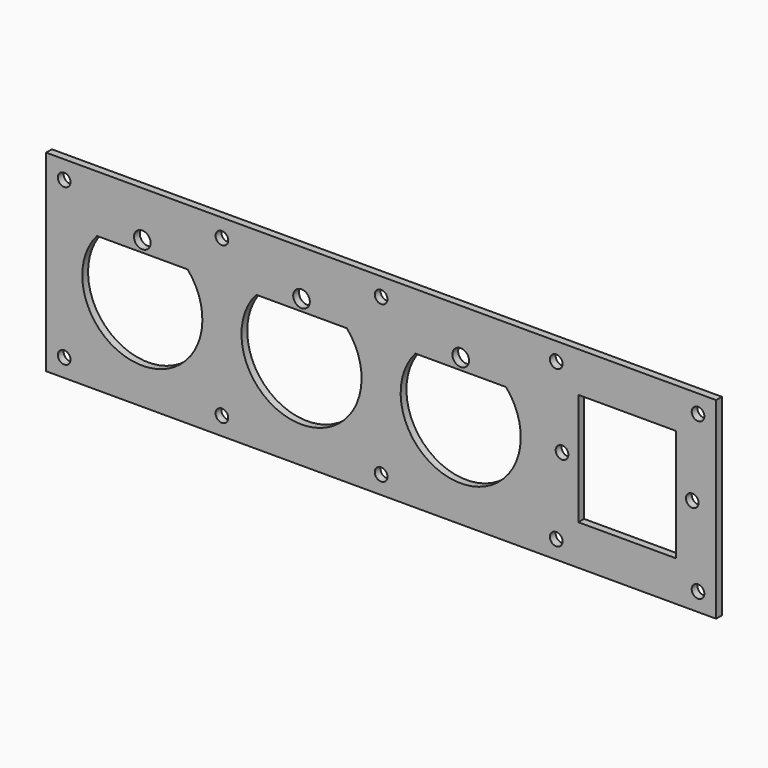
from build123d import *

# Parameters (mm, degrees)
F0_W     = 185.2
F0_H     = 53.2
F0_R     = 2.3
F0_W_2   = 27
F0_H_2   = 31
F1_DEPTH = 2
F2_D     = 3.5


with BuildPart() as f1:
    # F0 (on Front) → F1 (new body)
    with BuildSketch(Plane.XZ):
        with Locations((66, 0)):
            Rectangle(F0_W, F0_H)
        with BuildLine():
            ThreePointArc((12.519984, 10.9), (0, -16.6), (-12.519984, 10.9))
            Line((-12.519984, 10.9), (12.519984, 10.9))
        make_face(mode=Mode.SUBTRACT)
        with BuildLine():
            ThreePointArc((56.519984, 10.9), (44, -16.6), (31.480016, 10.9))
            Line((31.480016, 10.9), (56.519984, 10.9))
        make_face(mode=Mode.SUBTRACT)
        with BuildLine():
            ThreePointArc((100.519984, 10.9), (88, -16.6), (75.480016, 10.9))
            Line((75.480016, 10.9), (100.519984, 10.9))
        make_face(mode=Mode.SUBTRACT)
        with Locations((0, 14)):
            Circle(F0_R, mode=Mode.SUBTRACT)
        with Locations((44, 14)):
            Circle(F0_R, mode=Mode.SUBTRACT)
        with Locations((134, 0)):
            Rectangle(F0_W_2, F0_H_2, mode=Mode.SUBTRACT)
        with Locations((88, 14)):
            Circle(F0_R, mode=Mode.SUBTRACT)
    extrude(amount=F1_DEPTH)

    # F2 (through all)
    with Locations(Plane(origin=(0, 0, 0), x_dir=(1, 0, 0), z_dir=(0, 1, 0))):
        with Locations((-21.6, 21.6), (-21.6, -21.6), (153.6, 21.6), (153.6, -21.6), (22, 21.6), (66, 21.6), (114.4, 21.6), (114.4, -21.6), (66, -21.6), (22, -21.6), (116, 0), (152, 0)):
            Hole(F2_D / 2)


solid = f1.part
